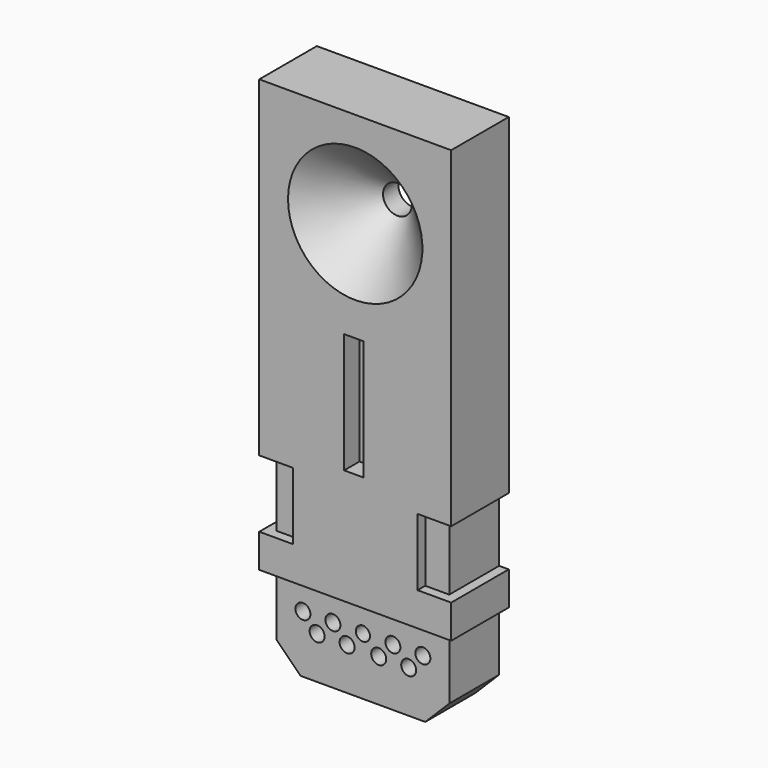
from build123d import *

# Parameters (mm, degrees)
F1_DEPTH       = 3.81
F2_DEPTH       = 3.302
F4_D           = 1.524
F4_CSINK_D     = 7.112
F4_CSINK_ANGLE = 90
F6_DEPTH       = 1.016
F7_W           = 1.778
F7_H           = 3.556
F8_DEPTH       = 0.508
F9_W           = 3.302
F9_H           = 3.556
F10_DEPTH      = 0.508
F11_W          = 3.302
F11_H          = 3.556
F12_DEPTH      = 0.508
F13_R          = 0.396875
F13_R_2        = 0.3737664599
F14_DEPTH      = 1.27


with BuildPart() as f1:
    # F0 (on Front) → F1 (new body)
    with BuildSketch(Plane.XZ):
        Polygon((21.3439739875, 15.0127133582), (11.1839739875, 15.0127133582), (11.1839739875, -7.8472866418), (11.6919739875, -7.8472866418), (20.8359739875, -7.8472866418), (21.3439739875, -7.8472866418), align=None)
    extrude(amount=F1_DEPTH)

    # F0 (on Front) → F2 (join)
    with BuildSketch(Plane.XZ):
        Polygon((20.8359739875, -7.8472866418), (11.6919739875, -7.8472866418), (11.6919739875, -11.1442380585), (12.9619739875, -12.4142380585), (19.5659739875, -12.4142380585), (20.8359739875, -11.1442380585), align=None)
    extrude(amount=F2_DEPTH)

    # F4 (through all)
    with Locations(Plane.XZ.offset(3.81)):
        with Locations((16.2639739875, 9.9327133582)):
            CounterSinkHole(F4_D / 2, F4_CSINK_D / 2, counter_sink_angle=F4_CSINK_ANGLE)

    # F5 (on face) → F6 (cut)
    with BuildSketch(Plane.XZ.offset(3.81)):
        Polygon((16.6935976049, 4.5998531383), (16.1855976049, 4.5998531383), (15.6775976049, 4.5998531383), (15.6775976049, -1.7501468617), (16.6935976049, -1.7501468617), align=None)
    extrude(amount=-F6_DEPTH, mode=Mode.SUBTRACT)

    # F7 (on face) → F8 (cut)
    with BuildSketch(Plane.XZ.offset(3.81)):
        with Locations((12.0729739875, -4.2912866418)):
            Rectangle(F7_W, F7_H)
        with Locations((20.4549739875, -4.2912866418)):
            Rectangle(F7_W, F7_H)
    extrude(amount=-F8_DEPTH, mode=Mode.SUBTRACT)

    # F9 (on face) → F10 (cut)
    with BuildSketch(Plane.YZ.offset(21.3439739875)):
        with Locations((-1.651, -4.2912866418)):
            Rectangle(F9_W, F9_H)
    extrude(amount=-F10_DEPTH, mode=Mode.SUBTRACT)

    # F11 (on face) → F12 (cut)
    with BuildSketch(Plane(origin=(11.1839739875, 0, 0), x_dir=(0, -1, 0), z_dir=(-1, 0, 0))):
        with Locations((1.651, -4.2912866418)):
            Rectangle(F11_W, F11_H)
    extrude(amount=-F12_DEPTH, mode=Mode.SUBTRACT)

    # F13 (on face) → F14 (cut)
    with BuildSketch(Plane.XZ.offset(3.302)):
        with Locations((13.0889739875, -9.3712866418)):
            Circle(F13_R)
        with Locations((14.6764739875, -9.3712866418)):
            Circle(F13_R)
        with Locations((13.8395041891, -10.1650366418)):
            Circle(F13_R)
        with Locations((15.4270041891, -10.1650366418)):
            Circle(F13_R)
        with Locations((16.2639739875, -9.3712866418)):
            Circle(F13_R_2)
        with Locations((17.1009437859, -10.1650366418)):
            Circle(F13_R)
        with Locations((17.8514739875, -9.3712866418)):
            Circle(F13_R)
        with Locations((18.6884437859, -10.1650366418)):
            Circle(F13_R)
        with Locations((19.4389739875, -9.3712866418)):
            Circle(F13_R)
    extrude(amount=-F14_DEPTH, mode=Mode.SUBTRACT)


solid = f1.part
